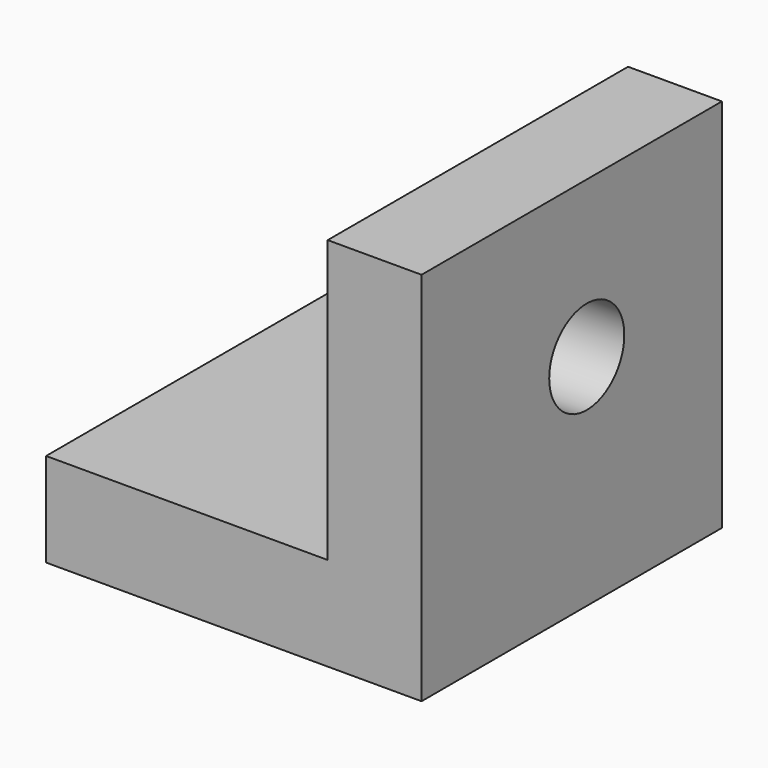
from build123d import *

# Parameters (mm, degrees)
F0_W     = 12.7
F0_H     = 50.8
F1_DEPTH = 50.8
F2_W     = 50.8
F2_H     = 12.7
F3_DEPTH = 38.1
F4_R     = 6.35
F5_DEPTH = 25.4


with BuildPart() as f1:
    # F0 (on Front) → F1 (new body)
    with BuildSketch(Plane.XZ):
        with Locations((-1.084147, 25.4)):
            Rectangle(F0_W, F0_H)
    extrude(amount=F1_DEPTH)

    # F2 (on face) → F3 (join)
    with BuildSketch(Plane(origin=(-7.434147, 0, 0), x_dir=(0, -1, 0), z_dir=(-1, 0, 0))):
        with Locations((25.4, 6.35)):
            Rectangle(F2_W, F2_H)
    extrude(amount=F3_DEPTH)

    # F4 (on face) → F5 (cut)
    with BuildSketch(Plane(origin=(-7.434147, 0, 0), x_dir=(0, -1, 0), z_dir=(-1, 0, 0))):
        with Locations((22.86, 29.676056)):
            Circle(F4_R)
    extrude(amount=-F5_DEPTH, mode=Mode.SUBTRACT)


solid = f1.part
